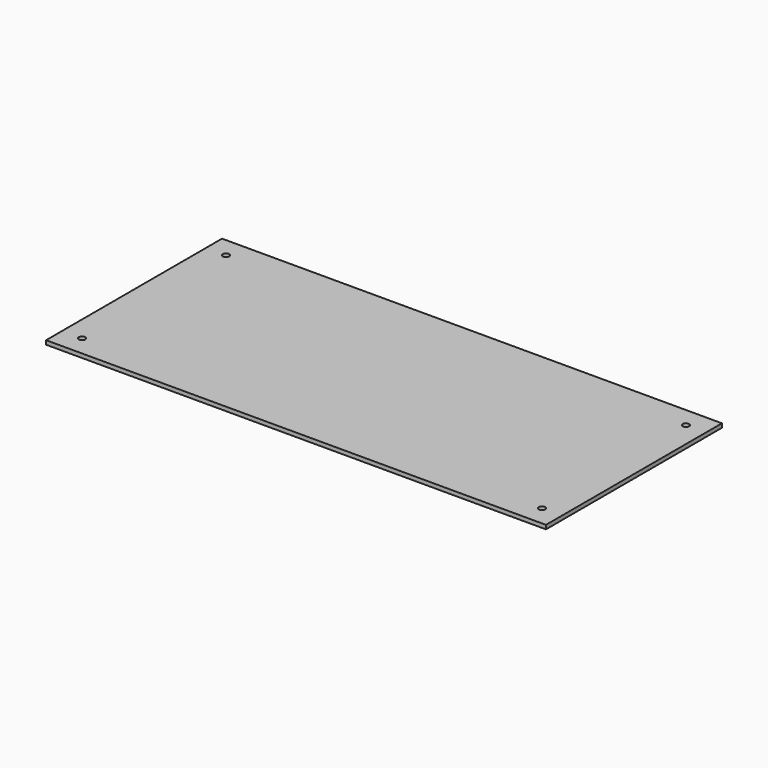
from build123d import *

# Parameters (mm, degrees)
F0_W     = 250
F0_H     = 110
F1_DEPTH = 2
F3_D     = 3.2
F3_DEPTH = 7


with BuildPart() as f1:
    # F0 (on Top) → F1 (new body)
    with BuildSketch(Plane.XY):
        Rectangle(F0_W, F0_H)
    extrude(amount=F1_DEPTH)

    # F3
    with Locations(Plane.XY.offset(2)):
        with Locations((-115, 45), (-115, -45), (115, -45), (115, 45)):
            Hole(F3_D / 2, depth=F3_DEPTH)


solid = f1.part
